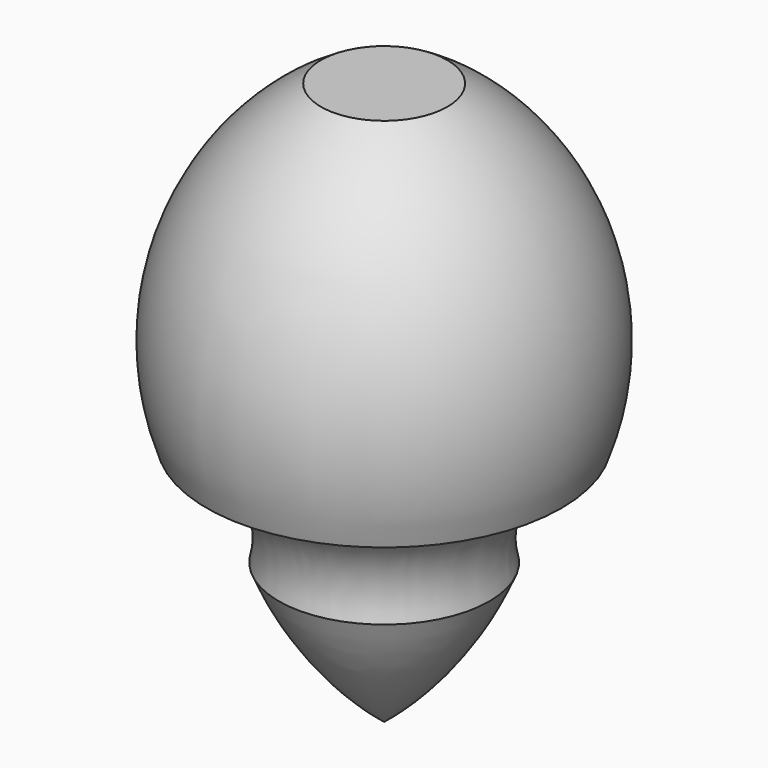
from build123d import *

# Parameters (mm, degrees)
F3_DEPTH = 1


with BuildPart() as f1:
    # F0 (on Front) → F1 (revolve)
    with BuildSketch(Plane.XZ):
        with BuildLine():
            Line((0, 35), (0, 20))
            Line((0, 20), (15, 20))
            ThreePointArc((15, 20), (16.692402, 29.847464), (25.253251, 35))
            Line((25.253251, 35), (0, 35))
        make_face()
        with BuildLine():
            Line((0, 20), (0, 0))
            ThreePointArc((0, 0), (8.770167, 9.047375), (15, 20))
            Line((15, 20), (0, 20))
        make_face()
        with BuildLine():
            Line((0, 80), (0, 35))
            Line((0, 35), (25.253251, 35))
            ThreePointArc((25.253251, 35), (25.330447, 60.463084), (9, 80))
            Line((9, 80), (0, 80))
        make_face()
    revolve(axis=Axis((0, 0, 40), (0, 0, 1)))

    # F2 (on Front) → F3 (join, symmetric)
    with BuildSketch(Plane.XZ):
        with BuildLine():
            Line((-25.253251, 35), (-15, 20))
            ThreePointArc((-15, 20), (-16.692402, 29.847464), (-25.253251, 35))
        make_face()
    extrude(amount=F3_DEPTH, both=True)


solid = f1.part
